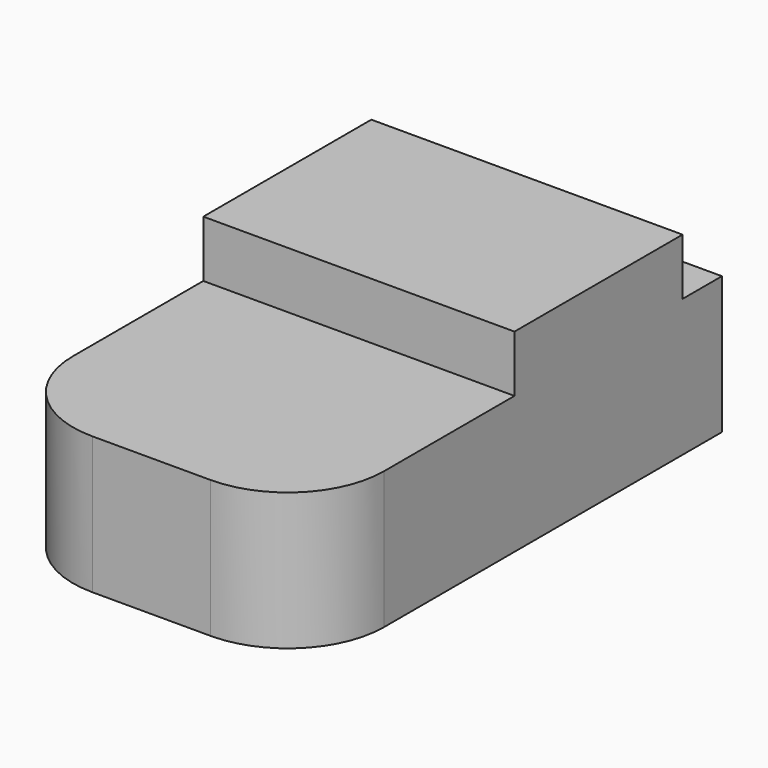
from build123d import *

# Parameters (mm, degrees)
F1_DEPTH = 36.1696
F2_W     = 82.0039
F2_H     = 55.347547
F3_DEPTH = 14.9225


with BuildPart() as f1:
    # F0 (on Top) → F1 (new body)
    with BuildSketch(Plane.XY):
        with BuildLine():
            Line((-15.60195, -68.326), (15.60195, -68.326))
            ThreePointArc((15.60195, -68.326), (33.562462, -60.886512), (41.00195, -42.926))
            Line((41.00195, -42.926), (41.00195, 68.326))
            Line((41.00195, 68.326), (-41.00195, 68.326))
            Line((-41.00195, 68.326), (-41.00195, -42.926))
            ThreePointArc((-41.00195, -42.926), (-33.562462, -60.886512), (-15.60195, -68.326))
        make_face()
    extrude(amount=F1_DEPTH)

    # F2 (on face) → F3 (join)
    with BuildSketch(Plane.XY.offset(36.1696)):
        with Locations((0, 27.673773)):
            Rectangle(F2_W, F2_H)
    extrude(amount=F3_DEPTH)


solid = f1.part
